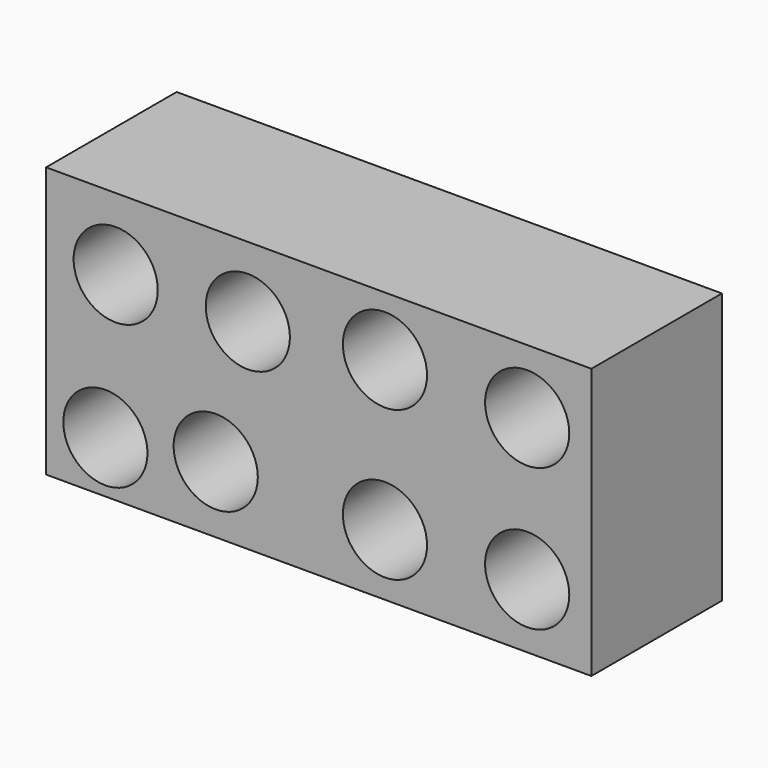
from build123d import *

# Parameters (mm, degrees)
F0_W     = 31.75
F0_H     = 15.75
F0_R     = 2.45
F1_DEPTH = 9.5


with BuildPart() as f1:
    # F0 (on Front) → F1 (new body)
    with BuildSketch(Plane.XZ):
        Rectangle(F0_W, F0_H)
        with Locations((-12.422411, -4.854735)):
            Circle(F0_R, mode=Mode.SUBTRACT)
        with Locations((-5.997026, -3.998017)):
            Circle(F0_R, mode=Mode.SUBTRACT)
        with Locations((3.855231, -4.28359)):
            Circle(F0_R, mode=Mode.SUBTRACT)
        with Locations((12.136838, -4.140804)):
            Circle(F0_R, mode=Mode.SUBTRACT)
        with Locations((-11.822074, 3.689801)):
            Circle(F0_R, mode=Mode.SUBTRACT)
        with Locations((-4.129118, 3.786956)):
            Circle(F0_R, mode=Mode.SUBTRACT)
        with Locations((3.855231, 4.426376)):
            Circle(F0_R, mode=Mode.SUBTRACT)
        with Locations((12.136838, 4.140804)):
            Circle(F0_R, mode=Mode.SUBTRACT)
    extrude(amount=F1_DEPTH)


solid = f1.part
